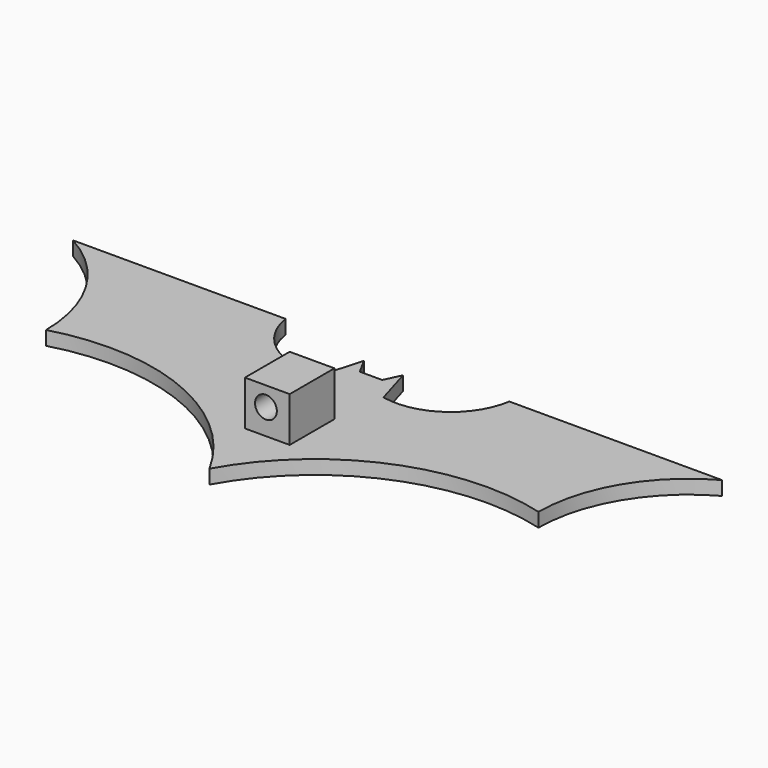
from build123d import *

# Parameters (mm, degrees)
F1_DEPTH = 2.5
F2_W     = 8
F2_H     = 10
F3_DEPTH = 8
F5_D     = 3.9
F5_DEPTH = 8
F5_TIP   = 1.1716782071


with BuildPart() as f1:
    # F0 (on Top) → F1 (new body)
    with BuildSketch(Plane.XY):
        with BuildLine():
            Line((-20.0000001545, 14.6966284215), (-58.0000001545, 14.6966284215))
            ThreePointArc((-58.0000001545, 14.6966284215), (-47.8037567712, 4.8507734158), (-44.0000001545, -8.8033715785))
            ThreePointArc((-44.0000001545, -8.8033715785), (-18.7781642386, -10.3906266976), (-1.545e-07, -27.3033715785))
            ThreePointArc((-1.545e-07, -27.3033715785), (18.7930768405, -10.4260952422), (43.9999998455, -8.8033715785))
            ThreePointArc((43.9999998455, -8.8033715785), (47.8037564623, 4.8507734158), (57.9999998455, 14.6966284215))
            Line((57.9999998455, 14.6966284215), (19.9999998455, 14.6966284215))
            ThreePointArc((19.9999998455, 14.6966284215), (14.8965569576, 6.584120609), (5.4999998455, 4.6966284215))
            Line((5.4999998455, 4.6966284215), (3.4606747963, 11.629213579))
            Line((3.4606747963, 11.629213579), (2.0776513566, 8.6966284215))
            Line((2.0776513566, 8.6966284215), (-1.9223486434, 8.6966284215))
            Line((-1.9223486434, 8.6966284215), (-3.5393252037, 11.629213579))
            Line((-3.5393252037, 11.629213579), (-5.5000001545, 4.6966284215))
            ThreePointArc((-5.5000001545, 4.6966284215), (-14.8965572665, 6.584120609), (-20.0000001545, 14.6966284215))
        make_face()
    extrude(amount=F1_DEPTH)

    # F2 (on face) → F3 (join)
    with BuildSketch(Plane.XY.offset(2.5)):
        with Locations((0.2678574529, -9.7117358875)):
            Rectangle(F2_W, F2_H)
    extrude(amount=F3_DEPTH)

    # F5
    with Locations(Plane.XZ.offset(14.7117358875)):
        with Locations((0.0262330668, 7.0685278624)):
            Hole(F5_D / 2, depth=F5_DEPTH)
            with Locations((0, 0, -(F5_DEPTH + F5_TIP / 2))):  # 118° drill point
                Cone(0, F5_D / 2, F5_TIP, mode=Mode.SUBTRACT)


solid = f1.part
